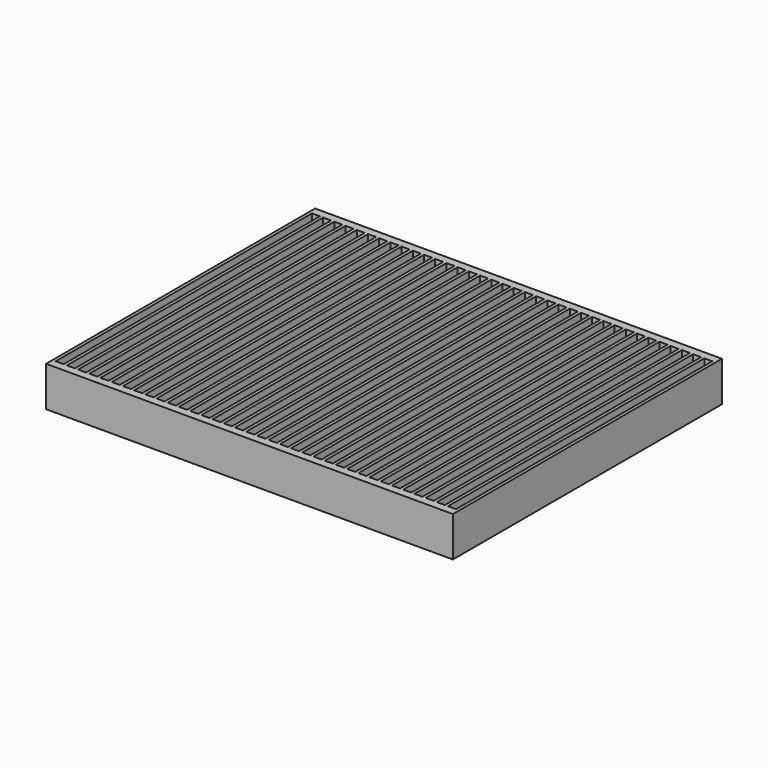
from build123d import *

# Parameters (mm, degrees)
F0_W     = 0.4
F0_H     = 1
F0_W_2   = 1
F1_DEPTH = 5


with BuildPart() as f1:
    # F0 (on Top) → F1 (new body)
    with BuildSketch(Plane.XY):
        Polygon((28.977659, 27.887268), (-21.822341, 27.887268), (-21.822341, -13.112732), (-21.422341, -13.112732), (-21.422341, 26.887268), (-20.422341, 26.887268), (-20.422341, -13.112732), (-20.022341, -13.112732), (-20.022341, 26.887268), (-19.022341, 26.887268), (-19.022341, -13.112732), (-18.622341, -13.112732), (-18.622341, 26.887268), (-17.622341, 26.887268), (-17.622341, -13.112732), (-17.222341, -13.112732), (-17.222341, 26.887268), (-16.222341, 26.887268), (-16.222341, -13.112732), (-15.822341, -13.112732), (-15.822341, 26.887268), (-14.822341, 26.887268), (-14.822341, -13.112732), (-14.422341, -13.112732), (-14.422341, 26.887268), (-13.422341, 26.887268), (-13.422341, -13.112732), (-13.022341, -13.112732), (-13.022341, 26.887268), (-12.022341, 26.887268), (-12.022341, -13.112732), (-11.622341, -13.112732), (-11.622341, 26.887268), (-10.622341, 26.887268), (-10.622341, -13.112732), (-10.222341, -13.112732), (-10.222341, 26.887268), (-9.222341, 26.887268), (-9.222341, -13.112732), (-8.822341, -13.112732), (-8.822341, 26.887268), (-7.822341, 26.887268), (-7.822341, -13.112732), (-7.422341, -13.112732), (-7.422341, 26.887268), (-6.422341, 26.887268), (-6.422341, -13.112732), (-6.022341, -13.112732), (-6.022341, 26.887268), (-5.022341, 26.887268), (-5.022341, -13.112732), (-4.622341, -13.112732), (-4.622341, 26.887268), (-3.622341, 26.887268), (-3.622341, -13.112732), (-3.222341, -13.112732), (-3.222341, 26.887268), (-2.222341, 26.887268), (-2.222341, -13.112732), (-1.822341, -13.112732), (-1.822341, 26.887268), (-0.822341, 26.887268), (-0.822341, -13.112732), (-0.422341, -13.112732), (-0.422341, 26.887268), (0.577659, 26.887268), (0.577659, -13.112732), (0.977659, -13.112732), (0.977659, 26.887268), (1.977659, 26.887268), (1.977659, -13.112732), (2.377659, -13.112732), (2.377659, 26.887268), (3.377659, 26.887268), (3.377659, -13.112732), (3.777659, -13.112732), (3.777659, 26.887268), (4.777659, 26.887268), (4.777659, -13.112732), (5.177659, -13.112732), (5.177659, 26.887268), (6.177659, 26.887268), (6.177659, -13.112732), (6.577659, -13.112732), (6.577659, 26.887268), (7.577659, 26.887268), (7.577659, -13.112732), (7.977659, -13.112732), (7.977659, 26.887268), (8.977659, 26.887268), (8.977659, -13.112732), (9.377659, -13.112732), (9.377659, 26.887268), (10.377659, 26.887268), (10.377659, -13.112732), (10.777659, -13.112732), (10.777659, 26.887268), (11.777659, 26.887268), (11.777659, -13.112732), (12.177659, -13.112732), (12.177659, 26.887268), (13.177659, 26.887268), (13.177659, -13.112732), (13.577659, -13.112732), (13.577659, 26.887268), (14.577659, 26.887268), (14.577659, -13.112732), (14.977659, -13.112732), (14.977659, 26.887268), (15.977659, 26.887268), (15.977659, -13.112732), (16.377659, -13.112732), (16.377659, 26.887268), (17.377659, 26.887268), (17.377659, -13.112732), (17.777659, -13.112732), (17.777659, 26.887268), (18.777659, 26.887268), (18.777659, -13.112732), (19.177659, -13.112732), (19.177659, 26.887268), (20.177659, 26.887268), (20.177659, -13.112732), (20.577659, -13.112732), (20.577659, 26.887268), (21.577659, 26.887268), (21.577659, -13.112732), (21.977659, -13.112732), (21.977659, 26.887268), (22.977659, 26.887268), (22.977659, -13.112732), (23.377659, -13.112732), (23.377659, 26.887268), (24.377659, 26.887268), (24.377659, -13.112732), (24.777659, -13.112732), (24.777659, 26.887268), (25.777659, 26.887268), (25.777659, -13.112732), (26.177659, -13.112732), (26.177659, 26.887268), (27.177659, 26.887268), (27.177659, -13.112732), (27.577659, -13.112732), (27.577659, 26.887268), (28.577659, 26.887268), (28.577659, -13.112732), (28.577659, -14.112732), (28.977659, -14.112732), (28.977659, 26.887268), align=None)
        with Locations((-21.622341, -13.612732)):
            Rectangle(F0_W, F0_H)
        with Locations((-20.922341, -13.612732)):
            Rectangle(F0_W_2, F0_H)
        with Locations((-20.222341, -13.612732)):
            Rectangle(F0_W, F0_H)
        with Locations((-19.522341, -13.612732)):
            Rectangle(F0_W_2, F0_H)
        with Locations((28.077659, -13.612732)):
            Rectangle(F0_W_2, F0_H)
        with Locations((-18.822341, -13.612732)):
            Rectangle(F0_W, F0_H)
        with Locations((27.377659, -13.612732)):
            Rectangle(F0_W, F0_H)
        with Locations((-18.122341, -13.612732)):
            Rectangle(F0_W_2, F0_H)
        with Locations((26.677659, -13.612732)):
            Rectangle(F0_W_2, F0_H)
        with Locations((-17.422341, -13.612732)):
            Rectangle(F0_W, F0_H)
        with Locations((25.977659, -13.612732)):
            Rectangle(F0_W, F0_H)
        with Locations((-16.722341, -13.612732)):
            Rectangle(F0_W_2, F0_H)
        with Locations((25.277659, -13.612732)):
            Rectangle(F0_W_2, F0_H)
        with Locations((-16.022341, -13.612732)):
            Rectangle(F0_W, F0_H)
        with Locations((24.577659, -13.612732)):
            Rectangle(F0_W, F0_H)
        with Locations((-15.322341, -13.612732)):
            Rectangle(F0_W_2, F0_H)
        with Locations((23.877659, -13.612732)):
            Rectangle(F0_W_2, F0_H)
        with Locations((-14.622341, -13.612732)):
            Rectangle(F0_W, F0_H)
        with Locations((23.177659, -13.612732)):
            Rectangle(F0_W, F0_H)
        with Locations((-13.922341, -13.612732)):
            Rectangle(F0_W_2, F0_H)
        with Locations((22.477659, -13.612732)):
            Rectangle(F0_W_2, F0_H)
        with Locations((-13.222341, -13.612732)):
            Rectangle(F0_W, F0_H)
        with Locations((21.777659, -13.612732)):
            Rectangle(F0_W, F0_H)
        with Locations((-12.522341, -13.612732)):
            Rectangle(F0_W_2, F0_H)
        with Locations((21.077659, -13.612732)):
            Rectangle(F0_W_2, F0_H)
        with Locations((-11.822341, -13.612732)):
            Rectangle(F0_W, F0_H)
        with Locations((20.377659, -13.612732)):
            Rectangle(F0_W, F0_H)
        with Locations((-11.122341, -13.612732)):
            Rectangle(F0_W_2, F0_H)
        with Locations((19.677659, -13.612732)):
            Rectangle(F0_W_2, F0_H)
        with Locations((-10.422341, -13.612732)):
            Rectangle(F0_W, F0_H)
        with Locations((18.977659, -13.612732)):
            Rectangle(F0_W, F0_H)
        with Locations((-9.722341, -13.612732)):
            Rectangle(F0_W_2, F0_H)
        with Locations((18.277659, -13.612732)):
            Rectangle(F0_W_2, F0_H)
        with Locations((-9.022341, -13.612732)):
            Rectangle(F0_W, F0_H)
        with Locations((17.577659, -13.612732)):
            Rectangle(F0_W, F0_H)
        with Locations((-8.322341, -13.612732)):
            Rectangle(F0_W_2, F0_H)
        with Locations((16.877659, -13.612732)):
            Rectangle(F0_W_2, F0_H)
        with Locations((-7.622341, -13.612732)):
            Rectangle(F0_W, F0_H)
        with Locations((16.177659, -13.612732)):
            Rectangle(F0_W, F0_H)
        with Locations((-6.922341, -13.612732)):
            Rectangle(F0_W_2, F0_H)
        with Locations((15.477659, -13.612732)):
            Rectangle(F0_W_2, F0_H)
        with Locations((-6.222341, -13.612732)):
            Rectangle(F0_W, F0_H)
        with Locations((14.777659, -13.612732)):
            Rectangle(F0_W, F0_H)
        with Locations((-5.522341, -13.612732)):
            Rectangle(F0_W_2, F0_H)
        with Locations((14.077659, -13.612732)):
            Rectangle(F0_W_2, F0_H)
        with Locations((-4.822341, -13.612732)):
            Rectangle(F0_W, F0_H)
        with Locations((13.377659, -13.612732)):
            Rectangle(F0_W, F0_H)
        with Locations((-4.122341, -13.612732)):
            Rectangle(F0_W_2, F0_H)
        with Locations((12.677659, -13.612732)):
            Rectangle(F0_W_2, F0_H)
        with Locations((-3.422341, -13.612732)):
            Rectangle(F0_W, F0_H)
        with Locations((11.977659, -13.612732)):
            Rectangle(F0_W, F0_H)
        with Locations((-2.722341, -13.612732)):
            Rectangle(F0_W_2, F0_H)
        with Locations((11.277659, -13.612732)):
            Rectangle(F0_W_2, F0_H)
        with Locations((-2.022341, -13.612732)):
            Rectangle(F0_W, F0_H)
        with Locations((10.577659, -13.612732)):
            Rectangle(F0_W, F0_H)
        with Locations((-1.322341, -13.612732)):
            Rectangle(F0_W_2, F0_H)
        with Locations((9.877659, -13.612732)):
            Rectangle(F0_W_2, F0_H)
        with Locations((-0.622341, -13.612732)):
            Rectangle(F0_W, F0_H)
        with Locations((9.177659, -13.612732)):
            Rectangle(F0_W, F0_H)
        with Locations((0.077659, -13.612732)):
            Rectangle(F0_W_2, F0_H)
        with Locations((8.477659, -13.612732)):
            Rectangle(F0_W_2, F0_H)
        with Locations((0.777659, -13.612732)):
            Rectangle(F0_W, F0_H)
        with Locations((7.777659, -13.612732)):
            Rectangle(F0_W, F0_H)
        with Locations((1.477659, -13.612732)):
            Rectangle(F0_W_2, F0_H)
        with Locations((7.077659, -13.612732)):
            Rectangle(F0_W_2, F0_H)
        with Locations((2.177659, -13.612732)):
            Rectangle(F0_W, F0_H)
        with Locations((6.377659, -13.612732)):
            Rectangle(F0_W, F0_H)
        with Locations((2.877659, -13.612732)):
            Rectangle(F0_W_2, F0_H)
        with Locations((5.677659, -13.612732)):
            Rectangle(F0_W_2, F0_H)
        with Locations((3.577659, -13.612732)):
            Rectangle(F0_W, F0_H)
        with Locations((4.977659, -13.612732)):
            Rectangle(F0_W, F0_H)
        with Locations((4.277659, -13.612732)):
            Rectangle(F0_W_2, F0_H)
    extrude(amount=F1_DEPTH)


solid = f1.part
